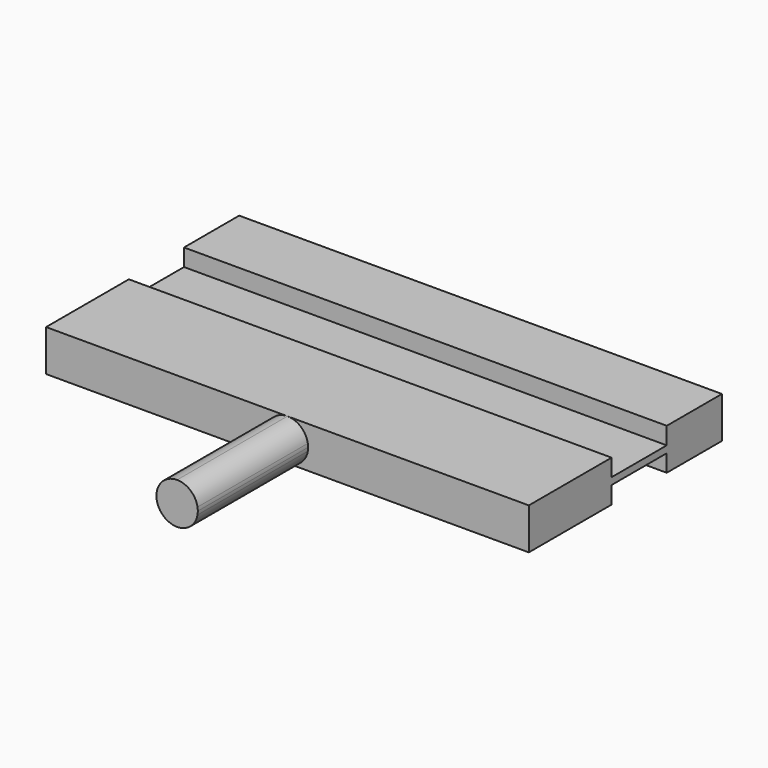
from build123d import *

# Parameters (mm, degrees)
F1_DEPTH = 10
F2_START = 10
F2_DEPTH = 10
F3_START = 20
F3_DEPTH = 15
F4_START = 35
F4_DEPTH = 20


with BuildPart() as f1:
    # F0 (on Front) → F1 (new body)
    with BuildSketch(Plane.XZ):
        with BuildLine():
            Line((1.12e-08, 3), (-35, 3))
            Line((-35, 3), (-35, 0.5))
            Line((-35, 0.5), (-2.9580398915, 0.5))
            ThreePointArc((-2.9580398915, 0.5), (-1.9364916688, 2.2912878511), (1.12e-08, 3))
        make_face()
        with BuildLine():
            Line((-2.9580398915, 0.5), (-35, 0.5))
            Line((-35, 0.5), (-35, -0.5))
            Line((-35, -0.5), (-2.9580398915, -0.5))
            ThreePointArc((-2.9580398915, -0.5), (-3, 0), (-2.9580398915, 0.5))
        make_face()
        with BuildLine():
            Line((-2.9580398915, -0.5), (-35, -0.5))
            Line((-35, -0.5), (-35, -3))
            Line((-35, -3), (1.44e-08, -3))
            ThreePointArc((1.44e-08, -3), (-1.9364916676, -2.2912878521), (-2.9580398915, -0.5))
        make_face()
        with BuildLine():
            Line((2.9580398915, -0.5), (-2.9580398915, -0.5))
            ThreePointArc((-2.9580398915, -0.5), (-1.9364916676, -2.2912878521), (1.44e-08, -3))
            ThreePointArc((1.44e-08, -3), (1.9364916786, -2.2912878428), (2.9580398915, -0.5))
        make_face()
        with BuildLine():
            ThreePointArc((2.9580398915, 0.5), (1.9364916774, 2.2912878439), (1.12e-08, 3))
            ThreePointArc((1.12e-08, 3), (-1.9364916688, 2.2912878511), (-2.9580398915, 0.5))
            Line((-2.9580398915, 0.5), (2.9580398915, 0.5))
        make_face()
        with BuildLine():
            Line((35, 3), (1.12e-08, 3))
            ThreePointArc((1.12e-08, 3), (1.9364916774, 2.2912878439), (2.9580398915, 0.5))
            Line((2.9580398915, 0.5), (35, 0.5))
            Line((35, 0.5), (35, 3))
        make_face()
        with BuildLine():
            Line((35, 0.5), (2.9580398915, 0.5))
            ThreePointArc((2.9580398915, 0.5), (2.9894915684, 0.2508787808), (3, 0))
            ThreePointArc((3, 0), (2.9894915684, -0.2508787808), (2.9580398915, -0.5))
            Line((2.9580398915, -0.5), (35, -0.5))
            Line((35, -0.5), (35, 0.5))
        make_face()
        with BuildLine():
            Line((35, -3), (35, -0.5))
            Line((35, -0.5), (2.9580398915, -0.5))
            ThreePointArc((2.9580398915, -0.5), (1.9364916786, -2.2912878428), (1.44e-08, -3))
            Line((1.44e-08, -3), (35, -3))
        make_face()
        with BuildLine():
            ThreePointArc((3, 0), (2.9894915684, 0.2508787808), (2.9580398915, 0.5))
            Line((2.9580398915, 0.5), (-2.9580398915, 0.5))
            ThreePointArc((-2.9580398915, 0.5), (-3, 0), (-2.9580398915, -0.5))
            Line((-2.9580398915, -0.5), (2.9580398915, -0.5))
            ThreePointArc((2.9580398915, -0.5), (2.9894915684, -0.2508787808), (3, 0))
        make_face()
    extrude(amount=F1_DEPTH)

    # F0 (on Front) → F2 (join)
    with BuildSketch(Plane.XZ.offset(F2_START)):
        with BuildLine():
            Line((-2.9580398915, 0.5), (-35, 0.5))
            Line((-35, 0.5), (-35, -0.5))
            Line((-35, -0.5), (-2.9580398915, -0.5))
            ThreePointArc((-2.9580398915, -0.5), (-3, 0), (-2.9580398915, 0.5))
        make_face()
        with BuildLine():
            ThreePointArc((3, 0), (2.9894915684, 0.2508787808), (2.9580398915, 0.5))
            Line((2.9580398915, 0.5), (-2.9580398915, 0.5))
            ThreePointArc((-2.9580398915, 0.5), (-3, 0), (-2.9580398915, -0.5))
            Line((-2.9580398915, -0.5), (2.9580398915, -0.5))
            ThreePointArc((2.9580398915, -0.5), (2.9894915684, -0.2508787808), (3, 0))
        make_face()
        with BuildLine():
            Line((35, 0.5), (2.9580398915, 0.5))
            ThreePointArc((2.9580398915, 0.5), (2.9894915684, 0.2508787808), (3, 0))
            ThreePointArc((3, 0), (2.9894915684, -0.2508787808), (2.9580398915, -0.5))
            Line((2.9580398915, -0.5), (35, -0.5))
            Line((35, -0.5), (35, 0.5))
        make_face()
    extrude(amount=F2_DEPTH)

    # F0 (on Front) → F3 (join)
    with BuildSketch(Plane.XZ.offset(F3_START)):
        with BuildLine():
            Line((35, 3), (1.12e-08, 3))
            ThreePointArc((1.12e-08, 3), (1.9364916774, 2.2912878439), (2.9580398915, 0.5))
            Line((2.9580398915, 0.5), (35, 0.5))
            Line((35, 0.5), (35, 3))
        make_face()
        with BuildLine():
            Line((35, 0.5), (2.9580398915, 0.5))
            ThreePointArc((2.9580398915, 0.5), (2.9894915684, 0.2508787808), (3, 0))
            ThreePointArc((3, 0), (2.9894915684, -0.2508787808), (2.9580398915, -0.5))
            Line((2.9580398915, -0.5), (35, -0.5))
            Line((35, -0.5), (35, 0.5))
        make_face()
        with BuildLine():
            Line((35, -3), (35, -0.5))
            Line((35, -0.5), (2.9580398915, -0.5))
            ThreePointArc((2.9580398915, -0.5), (1.9364916786, -2.2912878428), (1.44e-08, -3))
            Line((1.44e-08, -3), (35, -3))
        make_face()
        with BuildLine():
            Line((-2.9580398915, -0.5), (-35, -0.5))
            Line((-35, -0.5), (-35, -3))
            Line((-35, -3), (1.44e-08, -3))
            ThreePointArc((1.44e-08, -3), (-1.9364916676, -2.2912878521), (-2.9580398915, -0.5))
        make_face()
        with BuildLine():
            Line((1.12e-08, 3), (-35, 3))
            Line((-35, 3), (-35, 0.5))
            Line((-35, 0.5), (-2.9580398915, 0.5))
            ThreePointArc((-2.9580398915, 0.5), (-1.9364916688, 2.2912878511), (1.12e-08, 3))
        make_face()
        with BuildLine():
            Line((-2.9580398915, 0.5), (-35, 0.5))
            Line((-35, 0.5), (-35, -0.5))
            Line((-35, -0.5), (-2.9580398915, -0.5))
            ThreePointArc((-2.9580398915, -0.5), (-3, 0), (-2.9580398915, 0.5))
        make_face()
        with BuildLine():
            ThreePointArc((2.9580398915, 0.5), (1.9364916774, 2.2912878439), (1.12e-08, 3))
            ThreePointArc((1.12e-08, 3), (-1.9364916688, 2.2912878511), (-2.9580398915, 0.5))
            Line((-2.9580398915, 0.5), (2.9580398915, 0.5))
        make_face()
        with BuildLine():
            ThreePointArc((3, 0), (2.9894915684, 0.2508787808), (2.9580398915, 0.5))
            Line((2.9580398915, 0.5), (-2.9580398915, 0.5))
            ThreePointArc((-2.9580398915, 0.5), (-3, 0), (-2.9580398915, -0.5))
            Line((-2.9580398915, -0.5), (2.9580398915, -0.5))
            ThreePointArc((2.9580398915, -0.5), (2.9894915684, -0.2508787808), (3, 0))
        make_face()
        with BuildLine():
            Line((2.9580398915, -0.5), (-2.9580398915, -0.5))
            ThreePointArc((-2.9580398915, -0.5), (-1.9364916676, -2.2912878521), (1.44e-08, -3))
            ThreePointArc((1.44e-08, -3), (1.9364916786, -2.2912878428), (2.9580398915, -0.5))
        make_face()
    extrude(amount=F3_DEPTH)

    # F0 (on Front) → F4 (join)
    with BuildSketch(Plane.XZ.offset(F4_START)):
        with BuildLine():
            Line((2.9580398915, -0.5), (-2.9580398915, -0.5))
            ThreePointArc((-2.9580398915, -0.5), (-1.9364916676, -2.2912878521), (1.44e-08, -3))
            ThreePointArc((1.44e-08, -3), (1.9364916786, -2.2912878428), (2.9580398915, -0.5))
        make_face()
        with BuildLine():
            ThreePointArc((3, 0), (2.9894915684, 0.2508787808), (2.9580398915, 0.5))
            Line((2.9580398915, 0.5), (-2.9580398915, 0.5))
            ThreePointArc((-2.9580398915, 0.5), (-3, 0), (-2.9580398915, -0.5))
            Line((-2.9580398915, -0.5), (2.9580398915, -0.5))
            ThreePointArc((2.9580398915, -0.5), (2.9894915684, -0.2508787808), (3, 0))
        make_face()
        with BuildLine():
            ThreePointArc((2.9580398915, 0.5), (1.9364916774, 2.2912878439), (1.12e-08, 3))
            ThreePointArc((1.12e-08, 3), (-1.9364916688, 2.2912878511), (-2.9580398915, 0.5))
            Line((-2.9580398915, 0.5), (2.9580398915, 0.5))
        make_face()
    extrude(amount=F4_DEPTH)


solid = f1.part
